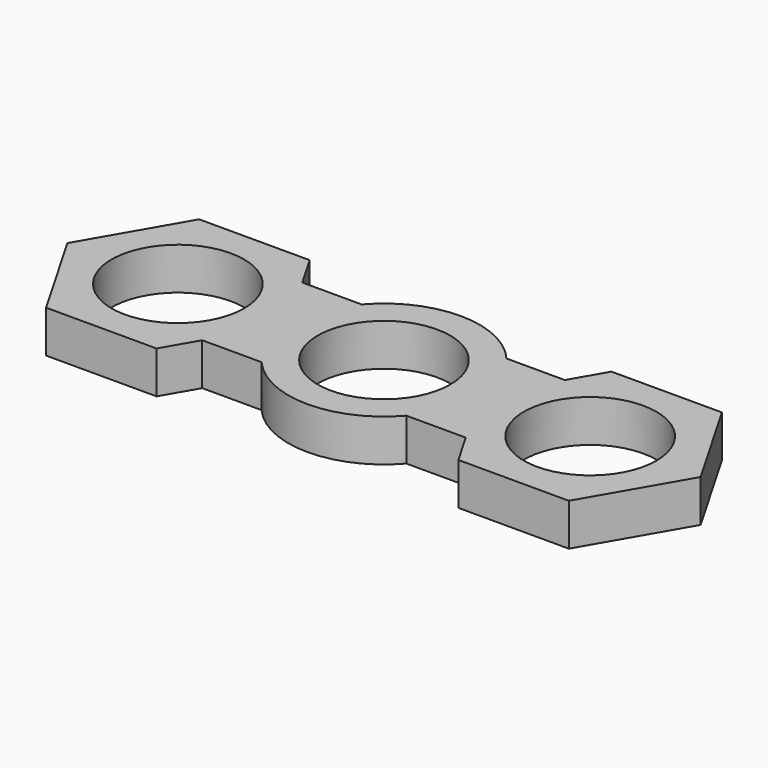
from build123d import *

# Parameters (mm, degrees)
F0_R     = 11
F1_DEPTH = 7


with BuildPart() as f1:
    # F0 (on Top) → F1 (new body)
    with BuildSketch(Plane.XY):
        Polygon((-21.865436, -10.375739), (-15.875, 0), (-21.865436, 10.375739), (-25.040436, 15.875), (-43.371307, 15.875), (-52.536742, 0), (-43.371307, -15.875), (-25.040436, -15.875), align=None)
        with Locations((-34.205871, 0)):
            Circle(F0_R, mode=Mode.SUBTRACT)
        with BuildLine():
            ThreePointArc((-12.014977, 10.375739), (-14.878733, 5.535245), (-15.875, 0))
            ThreePointArc((-15.875, 0), (-14.878733, -5.535245), (-12.014977, -10.375739))
            ThreePointArc((-12.014977, -10.375739), (0, -15.875), (12.014977, -10.375739))
            ThreePointArc((12.014977, -10.375739), (14.878733, -5.535245), (15.875, 0))
            ThreePointArc((15.875, 0), (14.906507, 5.460006), (12.1192, 10.25381))
            ThreePointArc((12.1192, 10.25381), (0.080201, 15.874797), (-12.014977, 10.375739))
        make_face()
        Circle(F0_R, mode=Mode.SUBTRACT)
        with BuildLine():
            Line((-21.865436, 10.375739), (-15.875, 0))
            ThreePointArc((-15.875, 0), (-14.878733, 5.535245), (-12.014977, 10.375739))
            Line((-12.014977, 10.375739), (-21.865436, 10.375739))
        make_face()
        with BuildLine():
            ThreePointArc((-12.014977, -10.375739), (-14.878733, -5.535245), (-15.875, 0))
            Line((-15.875, 0), (-21.865436, -10.375739))
            Line((-21.865436, -10.375739), (-12.014977, -10.375739))
        make_face()
        with BuildLine():
            ThreePointArc((15.875, 0), (14.878733, -5.535245), (12.014977, -10.375739))
            Line((12.014977, -10.375739), (21.865436, -10.375739))
            Line((21.865436, -10.375739), (15.875, 0))
        make_face()
        with BuildLine():
            Line((21.79504, 10.25381), (12.1192, 10.25381))
            ThreePointArc((12.1192, 10.25381), (14.906507, 5.460006), (15.875, 0))
            Line((15.875, 0), (21.79504, 10.25381))
        make_face()
        Polygon((21.79504, 10.25381), (15.875, 0), (21.865436, -10.375739), (25.040436, -15.875), (43.371307, -15.875), (52.536742, 0), (43.371307, 15.875), (25.040436, 15.875), align=None)
        with Locations((34.205871, 0)):
            Circle(F0_R, mode=Mode.SUBTRACT)
    extrude(amount=F1_DEPTH)


solid = f1.part
